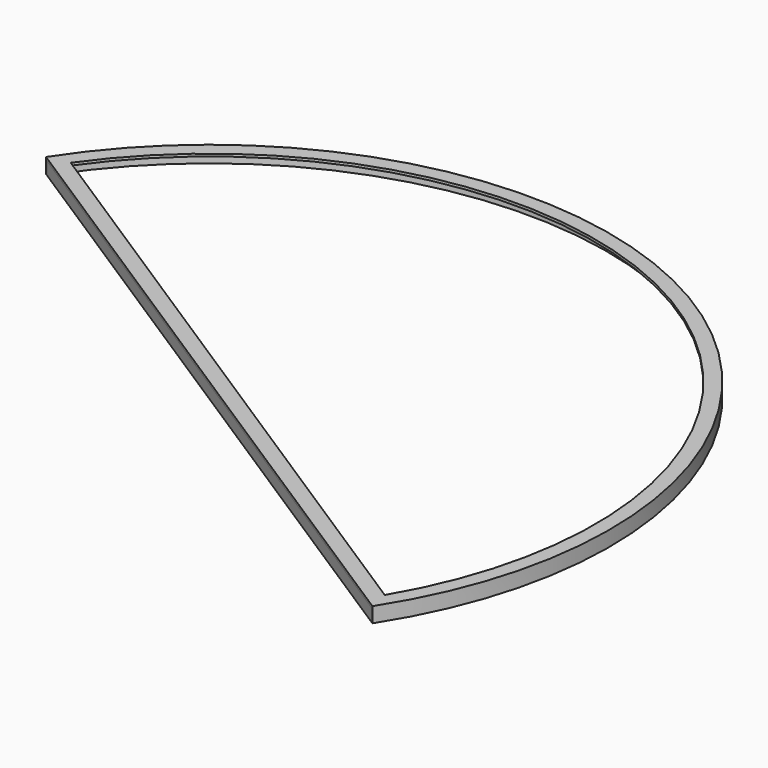
from build123d import *

# Parameters (mm, degrees)
F1_DEPTH = 12.5
F4_DEPTH = 5


with BuildPart() as f1:
    # F0 (on Top) → F1 (new body, symmetric)
    with BuildSketch(Plane.XY):
        with BuildLine():
            Line((664.085665, -427.890442), (668.288738, -430.598609))
            ThreePointArc((668.288738, -430.598609), (430.598609, 668.288738), (-668.288738, 430.598609))
            Line((-668.288738, 430.598609), (-664.085665, 427.890442))
            ThreePointArc((-664.085665, 427.890442), (-662.728249, 429.989847), (-661.364196, 432.084945))
            ThreePointArc((-661.364196, 432.084945), (427.890442, 664.085665), (666.780531, -423.678798))
            ThreePointArc((666.780531, -423.678798), (665.43643, -425.786752), (664.085665, -427.890442))
        make_face()
        with BuildLine():
            Line((0, 0), (664.085665, -427.890442))
            ThreePointArc((664.085665, -427.890442), (665.43643, -425.786752), (666.780531, -423.678798))
            Line((666.780531, -423.678798), (-661.364196, 432.084945))
            ThreePointArc((-661.364196, 432.084945), (-662.728249, 429.989847), (-664.085665, 427.890442))
            Line((-664.085665, 427.890442), (0, 0))
        make_face()
        with BuildLine():
            Line((664.085665, -427.890442), (668.288738, -430.598609))
            ThreePointArc((668.288738, -430.598609), (430.598609, 668.288738), (-668.288738, 430.598609))
            Line((-668.288738, 430.598609), (-664.085665, 427.890442))
            ThreePointArc((-664.085665, 427.890442), (-662.728249, 429.989847), (-661.364196, 432.084945))
            ThreePointArc((-661.364196, 432.084945), (427.890442, 664.085665), (666.780531, -423.678798))
            ThreePointArc((666.780531, -423.678798), (665.43643, -425.786752), (664.085665, -427.890442))
        make_face()
    extrude(amount=F1_DEPTH, both=True)

    # F3 (on face) + F2 (on face) → F4 (join)
    with BuildSketch(Plane.XY.offset(12.5)):
        with BuildLine():
            Line((-661.364196, 432.084945), (666.780531, -423.678798))
            ThreePointArc((666.780531, -423.678798), (427.890442, 664.085665), (-661.364196, 432.084945))
        make_face()
        with BuildLine():
            Line((659.813969, -389.449892), (-626.326622, 439.249317))
            ThreePointArc((-626.326622, 439.249317), (415.150741, 643.227202), (659.813969, -389.449892))
        make_face(mode=Mode.SUBTRACT)
    with BuildSketch(Plane.XY.offset(12.5)):
        with BuildLine():
            ThreePointArc((668.288738, -430.598609), (430.598609, 668.288738), (-668.288738, 430.598609))
            Line((-668.288738, 430.598609), (668.288738, -430.598609))
        make_face()
        with BuildLine():
            ThreePointArc((-661.364196, 432.084945), (427.890442, 664.085665), (666.780531, -423.678798))
            Line((666.780531, -423.678798), (-661.364196, 432.084945))
        make_face(mode=Mode.SUBTRACT)
    extrude(amount=F4_DEPTH)


solid = f1.part
